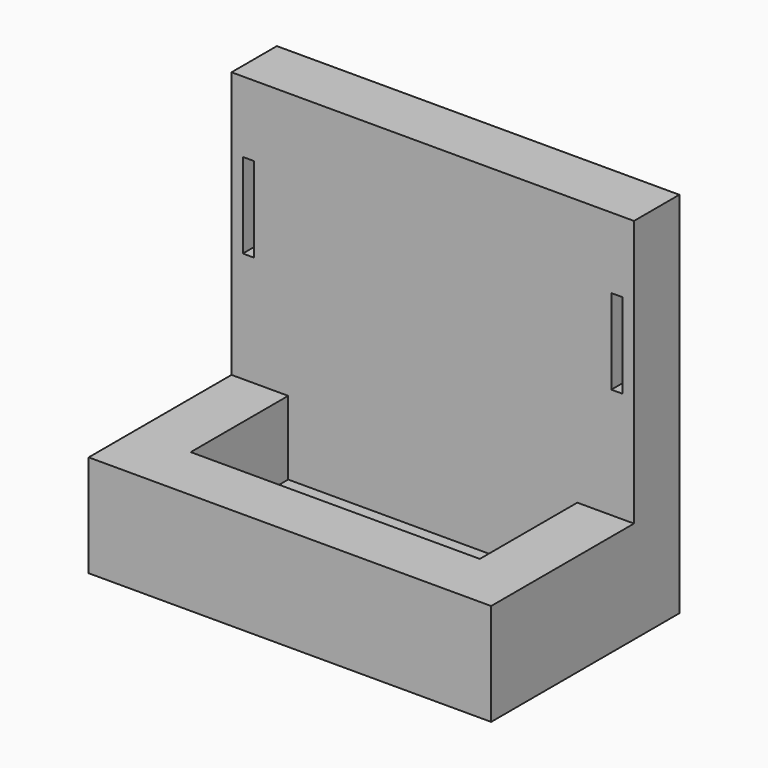
from build123d import *

# Parameters (mm, degrees)
F1_DEPTH = 18
F0_W     = 51
F0_H     = 21.5
F2_DEPTH = 5
F4_DEPTH = 47
F5_W     = 2
F5_H     = 12.5
F5_H_2   = 2.5
F6_DEPTH = 10
F7_W     = 60.499498
F7_H     = 31.819807
F8_DEPTH = 3


with BuildPart() as f1:
    # F0 (on Top) → F1 (new body)
    with BuildSketch(Plane.XY):
        Polygon((-37.291151, 13.41747), (-27.291151, 13.41747), (23.708849, 13.41747), (33.708849, 13.41747), (33.708849, 23.41747), (23.708849, 23.41747), (-27.291151, 23.41747), (-37.291151, 23.41747), align=None)
        Polygon((-27.291151, -8.08253), (-27.291151, 13.41747), (-37.291151, 13.41747), (-37.291151, -8.08253), (-37.291151, -18.08253), (-27.291151, -18.08253), (23.708849, -18.08253), (33.708849, -18.08253), (33.708849, -8.08253), (33.708849, 13.41747), (23.708849, 13.41747), (23.708849, -8.08253), align=None)
    extrude(amount=F1_DEPTH)

    # F0 (on Top) → F2 (join)
    with BuildSketch(Plane.XY):
        with Locations((-1.791151, 2.66747)):
            Rectangle(F0_W, F0_H)
    extrude(amount=F2_DEPTH)

    # F3 (on face) → F4 (join)
    with BuildSketch(Plane.XY.offset(18)):
        Polygon((33.708849, 23.41747), (-37.291151, 23.41747), (-37.291151, 13.41747), (-27.291151, 13.41747), (23.708849, 13.41747), (33.708849, 13.41747), align=None)
    extrude(amount=F4_DEPTH)

    # F5 (on face) → F6 (cut)
    with BuildSketch(Plane.XZ.offset(-13.41747)):
        Polygon((-33.291151, 37.5), (-33.291151, 50), (-33.291151, 52.5), (-35.291151, 52.5), (-35.291151, 37.5), align=None)
        with Locations((30.708849, 43.75)):
            Rectangle(F5_W, F5_H)
        with Locations((30.708849, 51.25)):
            Rectangle(F5_W, F5_H_2)
    extrude(amount=-F6_DEPTH, mode=Mode.SUBTRACT)

    # F7 (on face) → F8 (cut)
    with BuildSketch(Plane(origin=(0, 0, 0), x_dir=(1, 0, 0), z_dir=(0, 0, -1))):
        with Locations((-1.184429, -3.051597)):
            Rectangle(F7_W, F7_H)
    extrude(amount=-F8_DEPTH, mode=Mode.SUBTRACT)


solid = f1.part
